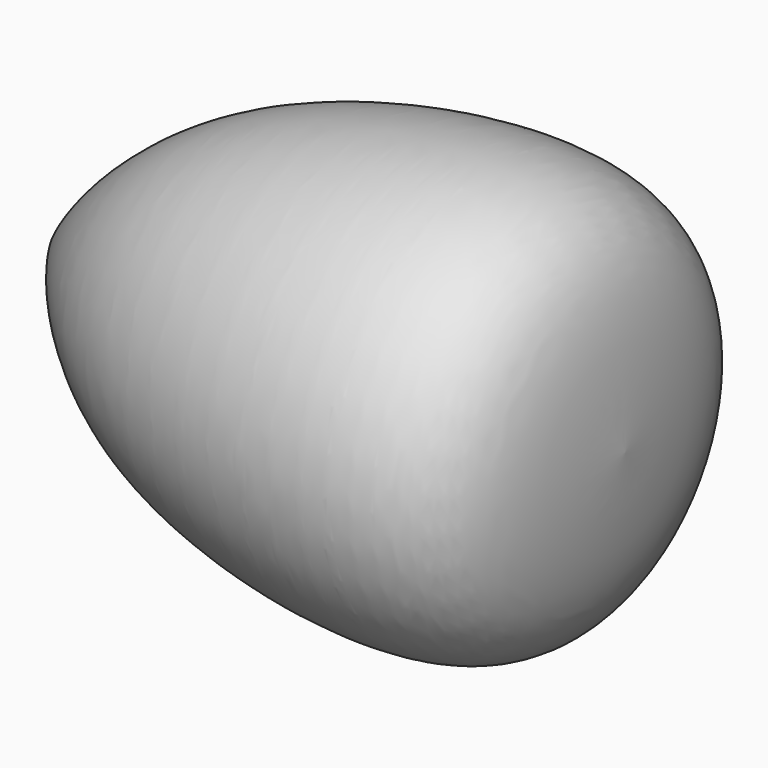
from build123d import *


with BuildPart() as f1:
    # F0 (on Front) → F1 (revolve)
    with BuildSketch(Plane.XZ):
        with BuildLine():
            add(Edge.make_bspline(
                [(0, 0), (1.4984711812, 2.3167214337), (5.0580778412, 7.8200752175), (17.8675965254, 18.9615522032), (44.4045372694, 24.0196748668), (59.3240261675, 18.7706717614), (59.9941896808, 6.5416526462), (60.352679342, 0)],
                knots=[0, 0, 0, 0, 0.1481805146, 0.3520016622, 0.6106681037, 0.7917352156, 1, 1, 1, 1], degree=3))
            Line((0, 0), (60.352679342, 0))
        make_face()
    revolve(axis=Axis((2.1554529667, 0, 0), (1, 0, 0)))


solid = f1.part
